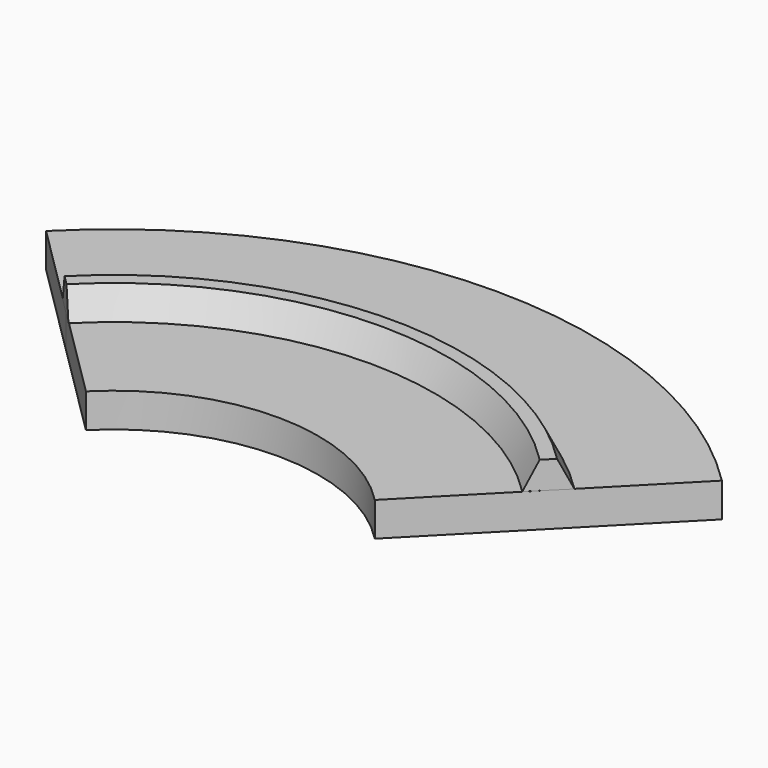
from build123d import *

# Parameters (mm, degrees)
F4_DEPTH = 12.7


with BuildPart() as f3:
    # F3: sweep along a path in F0
    with BuildLine(Plane.XY) as f3_path:
        ThreePointArc((90.164619, 89.428213), (0.26036, 126.99211), (-89.797171, 89.797171))
    # F2 (on face) → F3 (sweep)
    with BuildSketch(Plane(origin=(0, 0, 0), x_dir=(0.71, 0.704201, 0), z_dir=(0.704201, -0.71, 0))):
        Polygon((124.46, 10.16), (119.38, 0), (127, 0), (134.62, 0), (129.54, 10.16), (127, 10.16), align=None)
    sweep(path=f3_path.line)


with BuildPart() as f4:
    # F0 (on Top) → F4 (new body)
    with BuildSketch(Plane.XY):
        with BuildLine():
            ThreePointArc((-53.660149, 54.102019), (0.653281, 76.1972), (54.579885, 53.174017))
            Line((54.579885, 53.174017), (90.164619, 89.428213))
            ThreePointArc((90.164619, 89.428213), (0.326641, 126.991957), (-89.703386, 89.890858))
            Line((-89.703386, 89.890858), (-53.660149, 54.102019))
        make_face()
        with BuildLine():
            ThreePointArc((-89.703386, 89.890858), (0.326641, 126.991957), (90.164619, 89.428213))
            Line((90.164619, 89.428213), (125.749353, 125.682409))
            ThreePointArc((125.749353, 125.682409), (0, 177.78911), (-125.749353, 125.682409))
            Line((-125.749353, 125.682409), (-89.703386, 89.890858))
        make_face()
    extrude(amount=-F4_DEPTH)


solid = Compound([f3.part, f4.part])
